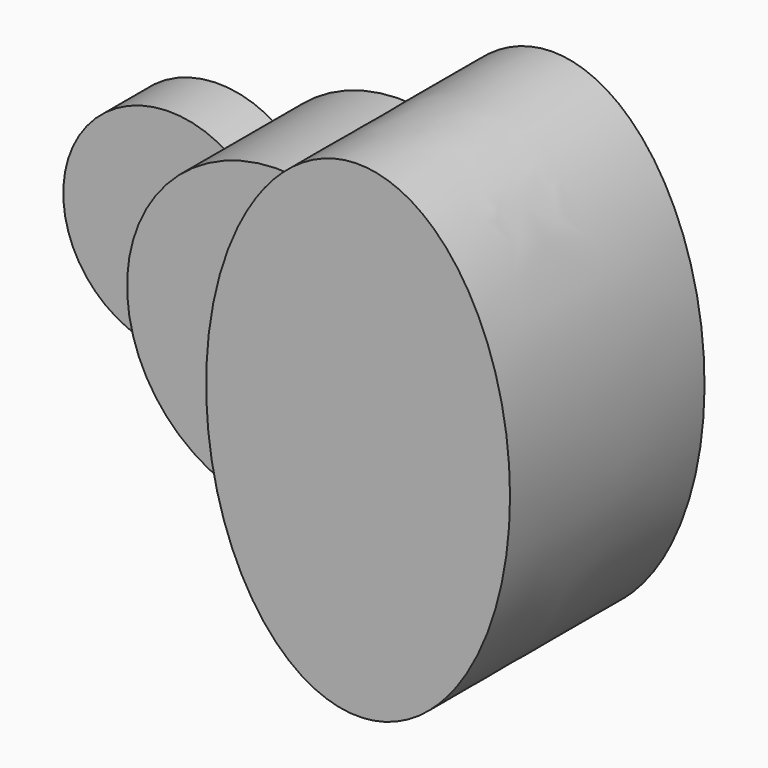
from build123d import *

# Parameters (mm, degrees)
F1_DEPTH = 25.4
F2_DEPTH = 63.5
F3_DEPTH = 101.6


with BuildPart() as f1:
    # F0 (on Front) → F1 (new body)
    with BuildSketch(Plane.XZ):
        with BuildLine():
            ThreePointArc((-51.59375, -37.0180356169), (-60.4501990278, -19.4428248333), (-63.5, 0))
            ThreePointArc((-63.5, 0), (-60.4501990278, 19.4428248333), (-51.59375, 37.0180356169))
            ThreePointArc((-51.59375, 37.0180356169), (-120.65, 0), (-51.59375, -37.0180356169))
        make_face()
    extrude(amount=F1_DEPTH)

    # F0 (on Front) → F2 (join)
    with BuildSketch(Plane.XZ):
        with BuildLine():
            Line((-31.75, 0), (0, 0))
            add(Edge.make_bspline(
                [(13.2439655959, 62.1035214404), (0, 34.6669399309), (0, 0)],
                knots=[0.9131508081, 0.9131508081, 0.9131508081, 1.5707963268, 1.5707963268, 1.5707963268], degree=2, weights=[1, 0.9464231645, 1]))
            ThreePointArc((13.2439655959, 62.1035214404), (-22.9128106244, 59.2220660674), (-51.59375, 37.0180356169))
            ThreePointArc((-51.59375, 37.0180356169), (-37.0237934934, 21.0006510316), (-31.75, 0))
        make_face()
        with BuildLine():
            Line((-63.5, 0), (-31.75, 0))
            ThreePointArc((-31.75, 0), (-37.0237934934, 21.0006510316), (-51.59375, 37.0180356169))
            ThreePointArc((-51.59375, 37.0180356169), (-60.4501990278, 19.4428248333), (-63.5, 0))
        make_face()
        with BuildLine():
            ThreePointArc((-51.59375, -37.0180356169), (-37.0237934934, -21.0006510316), (-31.75, 0))
            Line((-31.75, 0), (-63.5, 0))
            ThreePointArc((-63.5, 0), (-60.4501990278, -19.4428248333), (-51.59375, -37.0180356169))
        make_face()
        with BuildLine():
            add(Edge.make_bspline(
                [(0, 0), (0, -34.6669399309), (13.2439655959, -62.1035214404)],
                knots=[1.5707963268, 1.5707963268, 1.5707963268, 2.2284418454, 2.2284418454, 2.2284418454], degree=2, weights=[1, 0.9464231645, 1]))
            Line((0, 0), (-31.75, 0))
            ThreePointArc((-31.75, 0), (-37.0237934934, -21.0006510316), (-51.59375, -37.0180356169))
            ThreePointArc((-51.59375, -37.0180356169), (-22.9128106244, -59.2220660674), (13.2439655959, -62.1035214404))
        make_face()
    extrude(amount=F2_DEPTH)

    # F0 (on Front) → F3 (join)
    with BuildSketch(Plane.XZ):
        with BuildLine():
            ThreePointArc((63.5, 0), (49.3621404284, -39.9453262889), (13.2439655959, -62.1035214404))
            add(Edge.make_bspline(
                [(13.2439655959, -62.1035214404), (75.5537087854, -191.1861844445), (120.4955415237, -44.7930922222), (165.437374262, 101.6), (63.5, 101.6)],
                knots=[2.2284418454, 2.2284418454, 2.2284418454, 4.2558135763, 4.2558135763, 6.2831853072, 6.2831853072, 6.2831853072], degree=2, weights=[1, 0.5287358074, 1, 0.5287358074, 1]))
            Line((63.5, 101.6), (63.5, 0))
        make_face()
        with BuildLine():
            add(Edge.make_bspline(
                [(13.2439655959, 62.1035214404), (0, 34.6669399309), (0, 0)],
                knots=[0.9131508081, 0.9131508081, 0.9131508081, 1.5707963268, 1.5707963268, 1.5707963268], degree=2, weights=[1, 0.9464231645, 1]))
            add(Edge.make_bspline(
                [(0, 0), (0, -34.6669399309), (13.2439655959, -62.1035214404)],
                knots=[1.5707963268, 1.5707963268, 1.5707963268, 2.2284418454, 2.2284418454, 2.2284418454], degree=2, weights=[1, 0.9464231645, 1]))
            ThreePointArc((13.2439655959, -62.1035214404), (49.3621404284, -39.9453262889), (63.5, 0))
            ThreePointArc((63.5, 0), (49.3621404284, 39.9453262889), (13.2439655959, 62.1035214404))
        make_face()
        with BuildLine():
            add(Edge.make_bspline(
                [(63.5, 101.6), (32.3093875408, 101.6), (13.2439655959, 62.1035214404)],
                knots=[0, 0, 0, 0.9131508081, 0.9131508081, 0.9131508081], degree=2, weights=[1, 0.8975675831, 1]))
            ThreePointArc((13.2439655959, 62.1035214404), (49.3621404284, 39.9453262889), (63.5, 0))
            Line((63.5, 0), (63.5, 101.6))
        make_face()
    extrude(amount=F3_DEPTH)


solid = f1.part
